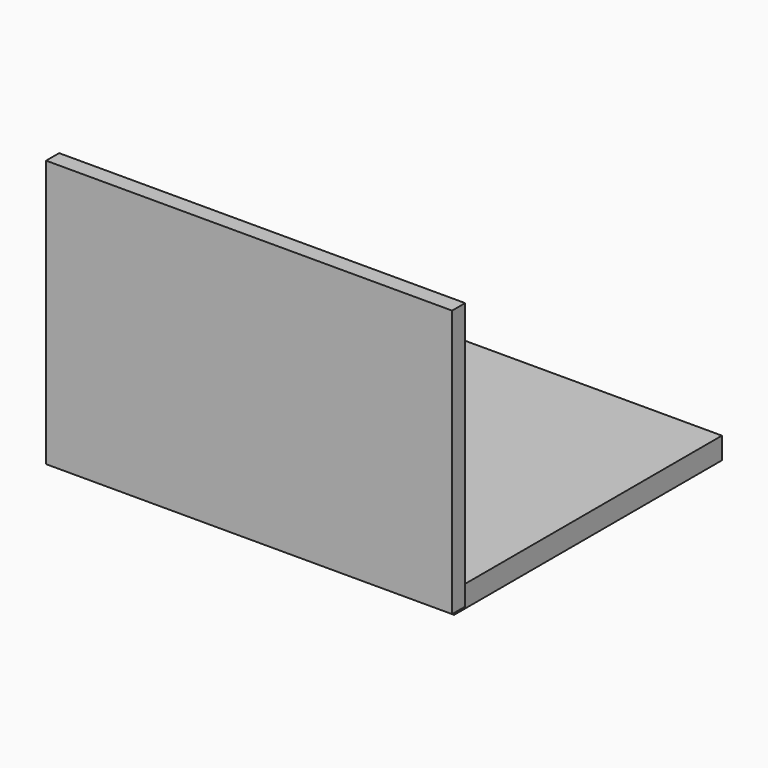
from build123d import *

# Parameters (mm, degrees)
F0_W     = 110.358618
F0_H     = 93.804828
F3_DEPTH = 3.048
F2_W     = 113.771484
F2_H     = 74.878134
F4_DEPTH = 4.572


with BuildPart() as f3:
    # F0 (on Top) → F3 (new body, symmetric)
    with BuildSketch(Plane.XY):
        Rectangle(F0_W, F0_H)
    extrude(amount=F3_DEPTH, both=True)

    # F2 (on face) → F4 (join)
    with BuildSketch(Plane.XZ.offset(46.902414)):
        with Locations((1.378391, 37.439067)):
            Rectangle(F2_W, F2_H)
    extrude(amount=F4_DEPTH)


solid = f3.part
